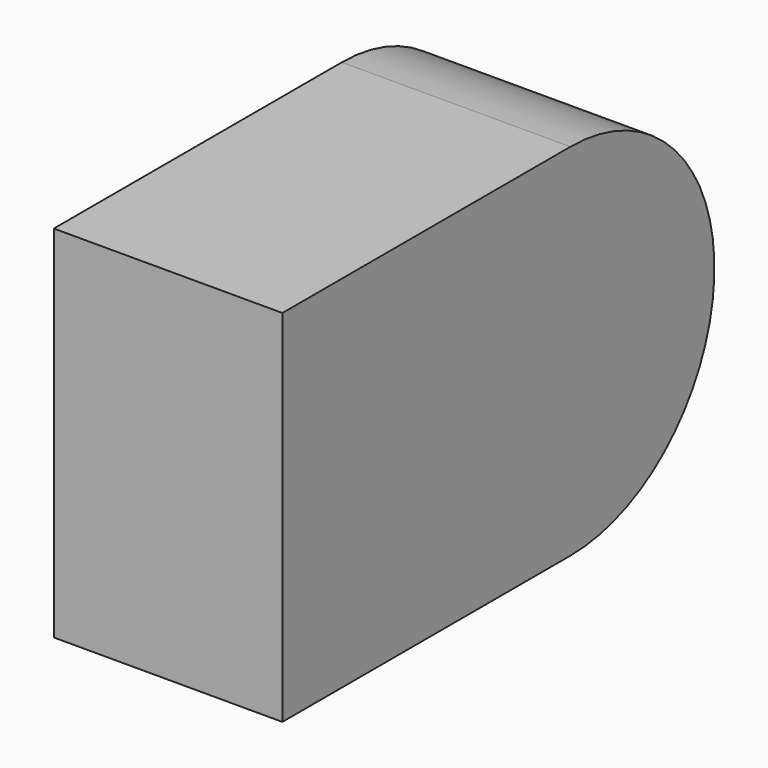
from build123d import *

# Parameters (mm, degrees)
F0_W     = 20
F0_H     = 20
F1_DEPTH = 12.7


with BuildPart() as f1:
    # F0 (on Right) → F1 (new body)
    with BuildSketch(Plane.YZ):
        with Locations((10.819444, -3.367022)):
            Rectangle(F0_W, F0_H)
        with BuildLine():
            ThreePointArc((20.819444, -13.367022), (30.819444, -3.367022), (20.819444, 6.632978))
            Line((20.819444, 6.632978), (20.819444, -13.367022))
        make_face()
    extrude(amount=F1_DEPTH)


solid = f1.part
